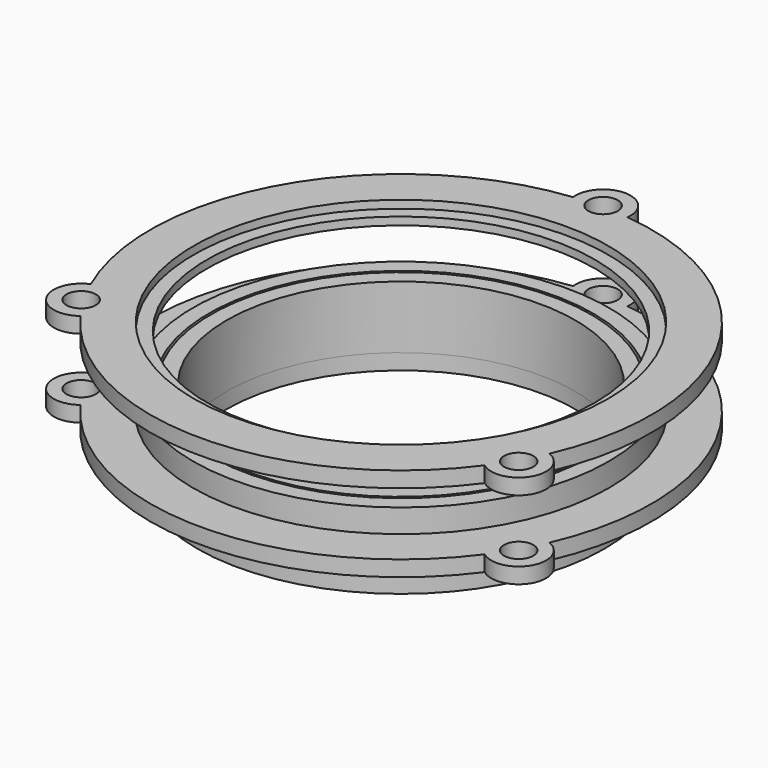
from build123d import *

# Parameters (mm, degrees)
F0_R      = 26
F1_DEPTH  = 2
F2_R      = 22.25
F3_DEPTH  = 25
F4_R      = 24.25
F4_R_2    = 22.25
F5_DEPTH  = 8
F7_R      = 1.875
F7_R_2    = 24.55
F8_DEPTH  = 2
F9_R      = 26.55
F9_R_2    = 24.55
F10_DEPTH = 3
F12_R     = 1.875
F12_R_2   = 24.75
F13_DEPTH = 2
F14_R     = 26.45
F14_R_2   = 24.75
F15_DEPTH = 1


with BuildPart() as f1:
    # F0 (on Top) → F1 (new body)
    with BuildSketch(Plane.XY):
        Circle(F0_R)
    extrude(amount=F1_DEPTH)

    # F2 (on face) → F3 (cut)
    with BuildSketch(Plane.XY.offset(2)):
        Circle(F2_R)
    extrude(amount=-F3_DEPTH, mode=Mode.SUBTRACT)

    # F4 (on face) → F5 (join)
    with BuildSketch(Plane.XY.offset(2)):
        Circle(F4_R)
        Circle(F4_R_2, mode=Mode.SUBTRACT)
    extrude(amount=F5_DEPTH)


with BuildPart() as f8:
    # F7 (on offset) → F8 (new body)
    with BuildSketch(Plane.XY.offset(5)):
        with BuildLine():
            ThreePointArc((-3.472365, 31.811047), (-27.712813, 16), (-29.285357, -12.898367))
            ThreePointArc((-29.285357, -12.898367), (-30.960408, -17.875), (-25.812992, -18.91268))
            ThreePointArc((-25.812992, -18.91268), (0, -32), (25.812992, -18.91268))
            ThreePointArc((25.812992, -18.91268), (30.960408, -17.875), (29.285357, -12.898367))
            ThreePointArc((29.285357, -12.898367), (27.712813, 16), (3.472365, 31.811047))
            ThreePointArc((3.472365, 31.811047), (0, 35.75), (-3.472365, 31.811047))
        make_face()
        with Locations((-27.929319, -16.125)):
            Circle(F7_R, mode=Mode.SUBTRACT)
        with Locations((27.929319, -16.125)):
            Circle(F7_R, mode=Mode.SUBTRACT)
        Circle(F7_R_2, mode=Mode.SUBTRACT)
        with Locations((0, 32.25)):
            Circle(F7_R, mode=Mode.SUBTRACT)
    extrude(amount=F8_DEPTH)

    # F9 (on face) → F10 (join)
    with BuildSketch(Plane.XY.offset(7)):
        Circle(F9_R)
        Circle(F9_R_2, mode=Mode.SUBTRACT)
    extrude(amount=F10_DEPTH)


with BuildPart() as f13:
    # F12 (on offset) → F13 (new body)
    with BuildSketch(Plane.XY.offset(15)):
        with BuildLine():
            ThreePointArc((-3.472365, 31.811047), (-27.712813, 16), (-29.285357, -12.898367))
            ThreePointArc((-29.285357, -12.898367), (-30.960408, -17.875), (-25.812992, -18.91268))
            ThreePointArc((-25.812992, -18.91268), (0, -32), (25.812992, -18.91268))
            ThreePointArc((25.812992, -18.91268), (30.960408, -17.875), (29.285357, -12.898367))
            ThreePointArc((29.285357, -12.898367), (27.712813, 16), (3.472365, 31.811047))
            ThreePointArc((3.472365, 31.811047), (0, 35.75), (-3.472365, 31.811047))
        make_face()
        with Locations((-27.929319, -16.125)):
            Circle(F12_R, mode=Mode.SUBTRACT)
        Circle(F12_R_2, mode=Mode.SUBTRACT)
        with Locations((27.929319, -16.125)):
            Circle(F12_R, mode=Mode.SUBTRACT)
        with Locations((0, 32.25)):
            Circle(F12_R, mode=Mode.SUBTRACT)
    extrude(amount=F13_DEPTH)

    # F14 (on face) → F15 (cut)
    with BuildSketch(Plane.XY.offset(17)):
        Circle(F14_R)
        Circle(F14_R_2, mode=Mode.SUBTRACT)
    extrude(amount=-F15_DEPTH, mode=Mode.SUBTRACT)


solid = Compound([f1.part, f8.part, f13.part])
